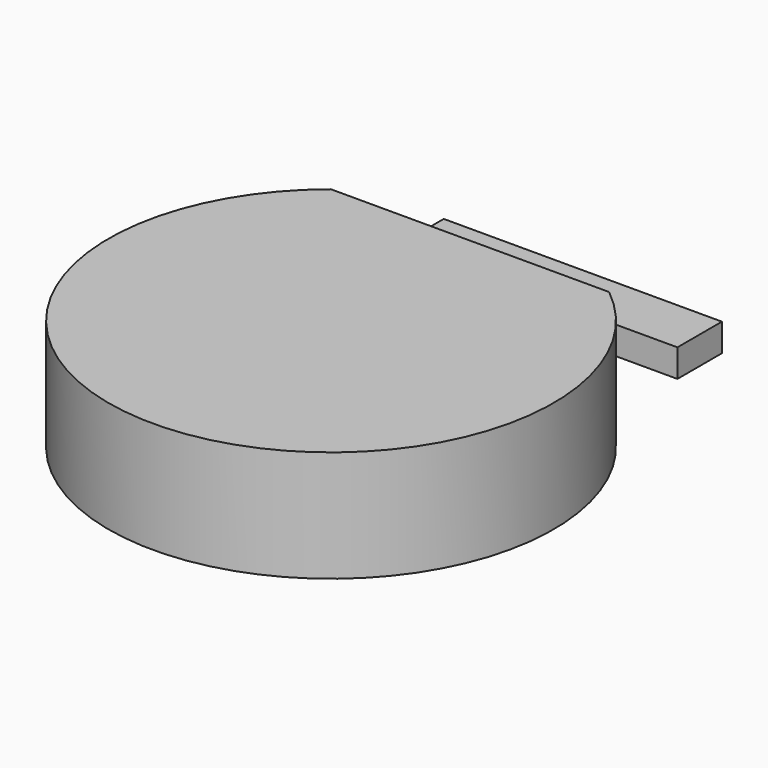
from build123d import *

# Parameters (mm, degrees)
F1_DEPTH = 20
F0_W     = 50
F0_H     = 10
F2_DEPTH = 5


with BuildPart() as f1:
    # F0 (on Top) → F1 (new body)
    with BuildSketch(Plane.XY):
        with BuildLine():
            Line((25, 31.22499), (-25, 31.22499))
            ThreePointArc((-25, 31.22499), (0, -40), (25, 31.22499))
        make_face()
    extrude(amount=F1_DEPTH)


with BuildPart() as f2:
    # F0 (on Top) → F2 (new body)
    with BuildSketch(Plane.XY):
        with Locations((0, 51.579577)):
            Rectangle(F0_W, F0_H)
    extrude(amount=F2_DEPTH)


solid = Compound([f1.part, f2.part])
